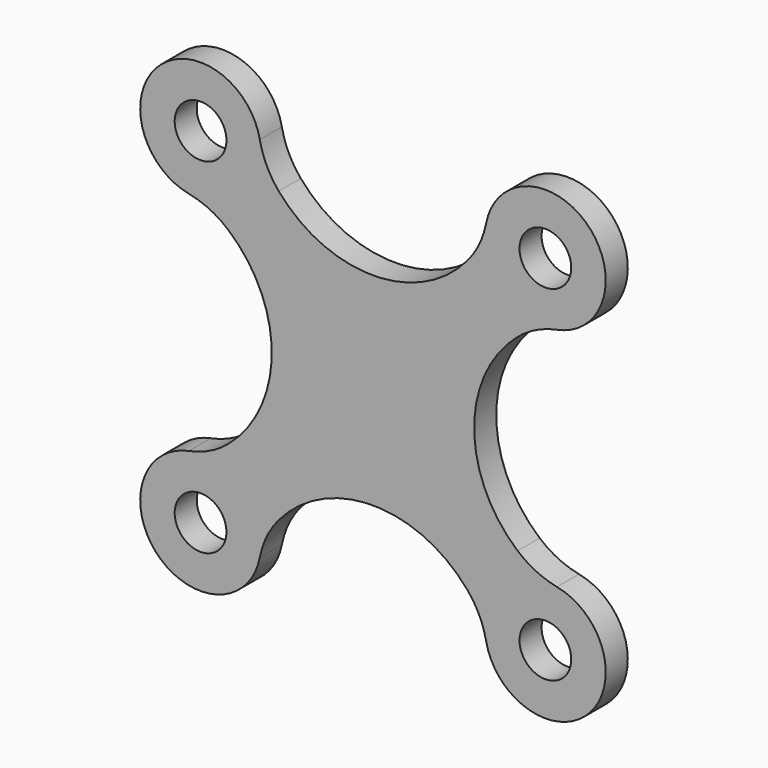
from build123d import *

# Parameters (mm, degrees)
F0_R     = 1.5
F1_DEPTH = 1.6


with BuildPart() as f1:
    # F0 (on Front) → F1 (new body)
    with BuildSketch(Plane.XZ):
        with BuildLine():
            ThreePointArc((-8.391363, -5.463446), (-9.461447, -6.161412), (-10.673479, -6.565408))
            ThreePointArc((-10.673479, -6.565408), (-12.474874, -12.474874), (-6.565408, -10.673479))
            ThreePointArc((-6.565408, -10.673479), (-6.161412, -9.461447), (-5.463446, -8.391363))
            ThreePointArc((-5.463446, -8.391363), (0, -5.870058), (5.463446, -8.391363))
            ThreePointArc((5.463446, -8.391363), (6.161412, -9.461447), (6.565408, -10.673479))
            ThreePointArc((6.565408, -10.673479), (12.474874, -12.474874), (10.673479, -6.565408))
            ThreePointArc((10.673479, -6.565408), (9.461447, -6.161412), (8.391363, -5.463446))
            ThreePointArc((8.391363, -5.463446), (5.870058, 0), (8.391363, 5.463446))
            ThreePointArc((8.391363, 5.463446), (9.461447, 6.161412), (10.673479, 6.565408))
            ThreePointArc((10.673479, 6.565408), (12.474874, 12.474874), (6.565408, 10.673479))
            ThreePointArc((6.565408, 10.673479), (6.161412, 9.461447), (5.463446, 8.391363))
            ThreePointArc((5.463446, 8.391363), (0, 5.870058), (-5.463446, 8.391363))
            ThreePointArc((-5.463446, 8.391363), (-6.161412, 9.461447), (-6.565408, 10.673479))
            ThreePointArc((-6.565408, 10.673479), (-12.474874, 12.474874), (-10.673479, 6.565408))
            ThreePointArc((-10.673479, 6.565408), (-9.461447, 6.161412), (-8.391363, 5.463446))
            ThreePointArc((-8.391363, 5.463446), (-5.870058, 0), (-8.391363, -5.463446))
        make_face()
        with Locations((-10, -10)):
            Circle(F0_R, mode=Mode.SUBTRACT)
        with Locations((10, -10)):
            Circle(F0_R, mode=Mode.SUBTRACT)
        with Locations((-10, 10)):
            Circle(F0_R, mode=Mode.SUBTRACT)
        with Locations((10, 10)):
            Circle(F0_R, mode=Mode.SUBTRACT)
    extrude(amount=F1_DEPTH)


solid = f1.part
